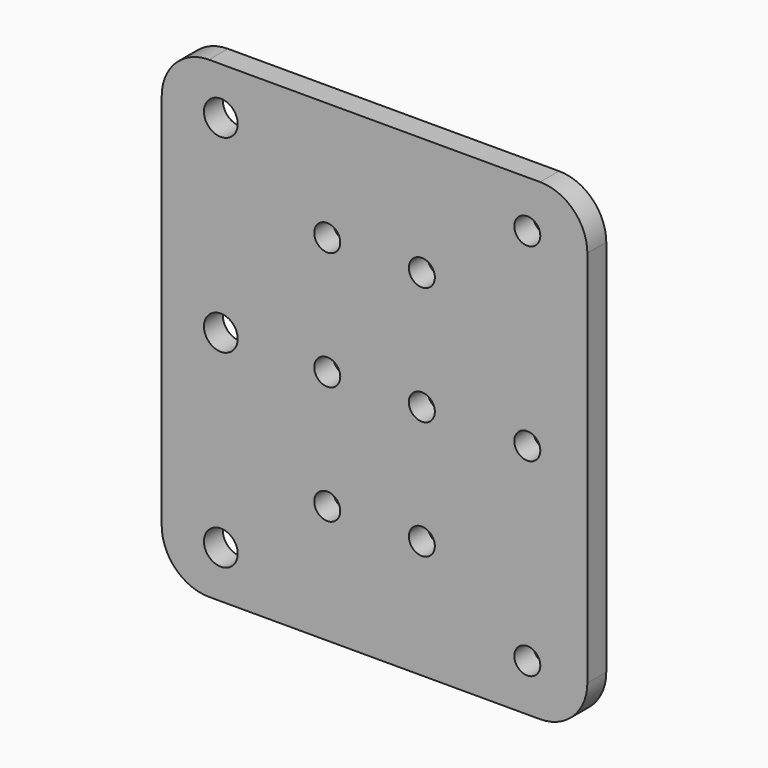
from build123d import *

# Parameters (mm, degrees)
F0_R     = 3.5685
F0_R_2   = 2.75
F1_DEPTH = 5


with BuildPart() as f1:
    # F0 (on Front) → F1 (new body)
    with BuildSketch(Plane.XZ):
        with BuildLine():
            Line((-35, -50), (35, -50))
            ThreePointArc((35, -50), (42.071068, -47.071068), (45, -40))
            Line((45, -40), (45, 40))
            ThreePointArc((45, 40), (42.071068, 47.071068), (35, 50))
            Line((35, 50), (-35, 50))
            ThreePointArc((-35, 50), (-42.071068, 47.071068), (-45, 40))
            Line((-45, 40), (-45, -40))
            ThreePointArc((-45, -40), (-42.071068, -47.071068), (-35, -50))
        make_face()
        with Locations((-32.5, -40)):
            Circle(F0_R, mode=Mode.SUBTRACT)
        with Locations((-10, -25)):
            Circle(F0_R_2, mode=Mode.SUBTRACT)
        with Locations((32.3, -40)):
            Circle(F0_R_2, mode=Mode.SUBTRACT)
        with Locations((10, -25)):
            Circle(F0_R_2, mode=Mode.SUBTRACT)
        with Locations((-32.5, 0)):
            Circle(F0_R, mode=Mode.SUBTRACT)
        with Locations((-10, 0)):
            Circle(F0_R_2, mode=Mode.SUBTRACT)
        with Locations((-32.5, 40)):
            Circle(F0_R, mode=Mode.SUBTRACT)
        with Locations((-10, 25)):
            Circle(F0_R_2, mode=Mode.SUBTRACT)
        with Locations((10, 0)):
            Circle(F0_R_2, mode=Mode.SUBTRACT)
        with Locations((32.3, 0)):
            Circle(F0_R_2, mode=Mode.SUBTRACT)
        with Locations((10, 25)):
            Circle(F0_R_2, mode=Mode.SUBTRACT)
        with Locations((32.3, 40)):
            Circle(F0_R_2, mode=Mode.SUBTRACT)
    extrude(amount=F1_DEPTH)


solid = f1.part
